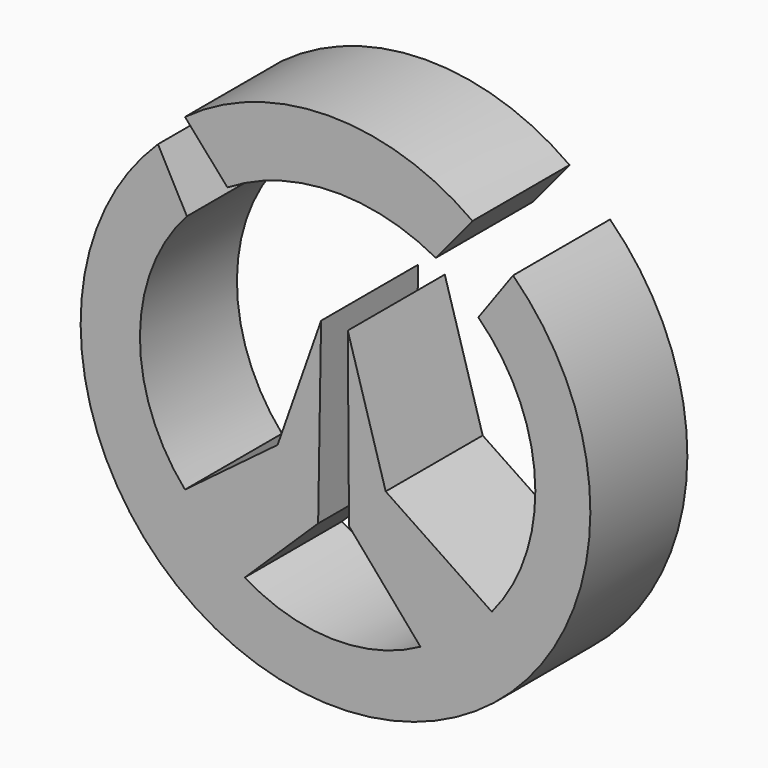
from build123d import *

# Parameters (mm, degrees)
F1_DEPTH = 12.7


with BuildPart() as f1:
    # F0 (on Front) → F1 (new body)
    with BuildSketch(Plane.XZ):
        with BuildLine():
            ThreePointArc((-11.184599, 18.773926), (-0.34986, 22.005325), (10.647555, 19.380376))
            Line((10.647555, 19.380376), (14.488396, 24.029816))
            ThreePointArc((14.488396, 24.029816), (-0.604731, 28.843341), (-15.63189, 23.827666))
            Line((-15.63189, 23.827666), (-11.184599, 18.773926))
        make_face()
        with BuildLine():
            ThreePointArc((-15.63189, -10.537762), (-20.348723, 2.13513), (-15.42974, 14.730935))
            Line((-15.42974, 14.730935), (-18.461984, 20.391123))
            ThreePointArc((-18.461984, 20.391123), (0.135777, -25.454311), (18.733537, 20.391123))
            Line((18.733537, 20.391123), (15.094845, 15.337384))
            ThreePointArc((15.094845, 15.337384), (21.038361, 2.273178), (16.509891, -11.34636))
            Line((16.509891, -11.34636), (5.391665, -3.866825))
            Line((5.391665, -3.866825), (1.422106, 9.677196))
            Line((1.422106, 9.677196), (1.550824, -8.314116))
            Line((1.550824, -8.314116), (9.030359, -17.006546))
            ThreePointArc((9.030359, -17.006546), (-0.22216, -19.293858), (-9.365253, -16.60225))
            Line((-9.365253, -16.60225), (-1.683568, -9.122713))
            Line((-1.683568, -9.122713), (-1.373787, 9.677196))
            Line((-1.373787, 9.677196), (-5.928711, -3.260376))
            Line((-5.928711, -3.260376), (-15.63189, -10.537762))
        make_face()
    extrude(amount=-F1_DEPTH)


solid = f1.part
